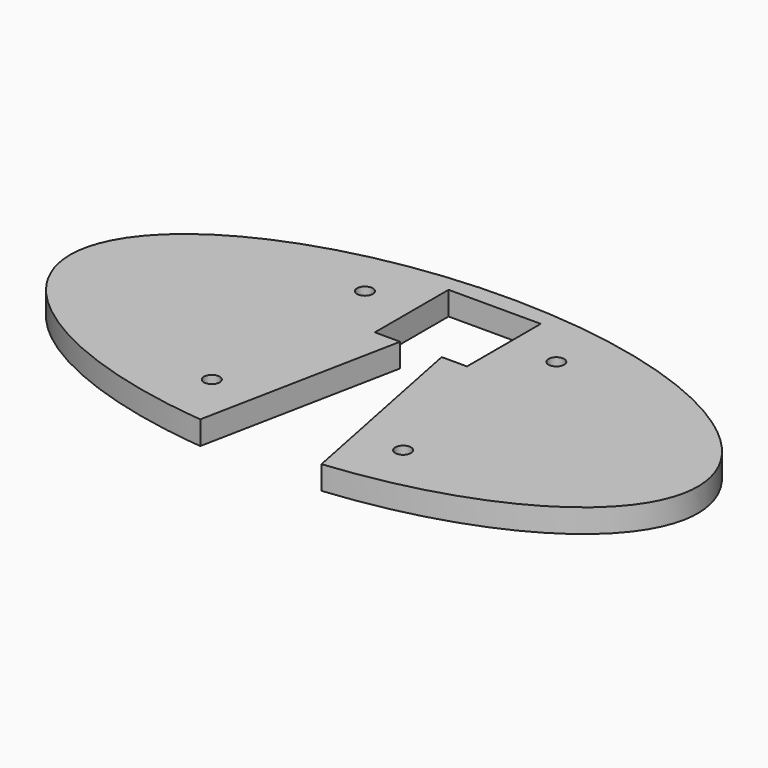
from build123d import *

# Parameters (mm, degrees)
F0_R     = 1
F1_DEPTH = 3


with BuildPart() as f1:
    # F0 (on Top) → F1 (new body)
    with BuildSketch(Plane.XY):
        with BuildLine():
            add(Edge.make_bspline(
                [(7.725276, -19.623456), (40, -16.447013), (40, 0)],
                knots=[4.906742, 4.906742, 4.906742, 6.283185, 6.283185, 6.283185], degree=2, weights=[1, 0.772377, 1]))
            add(Edge.make_bspline(
                [(40, 0), (40, 42.34111), (-25.406583, 15.447536), (-90.813167, -11.446037), (-7.725276, -19.623456)],
                knots=[0, 0, 0, 2.259018, 2.259018, 4.518036, 4.518036, 4.518036], degree=2, weights=[1, 0.427104, 1, 0.427104, 1]))
            Line((-7.725276, -19.623456), (-2.645751, 5.875))
            Line((-2.645751, 5.875), (-5.875, 5.875))
            Line((-5.875, 5.875), (-5.875, 17.625))
            Line((-5.875, 17.625), (5.875, 17.625))
            Line((5.875, 17.625), (5.875, 5.875))
            Line((5.875, 5.875), (2.645751, 5.875))
            Line((2.645751, 5.875), (7.725276, -19.623456))
        make_face()
        with Locations((-12.197592, -12.197592)):
            Circle(F0_R, mode=Mode.SUBTRACT)
        with Locations((12.197592, -12.197592)):
            Circle(F0_R, mode=Mode.SUBTRACT)
        with Locations((-12.197592, 12.197592)):
            Circle(F0_R, mode=Mode.SUBTRACT)
        with Locations((12.197592, 12.197592)):
            Circle(F0_R, mode=Mode.SUBTRACT)
    extrude(amount=F1_DEPTH)


solid = f1.part
